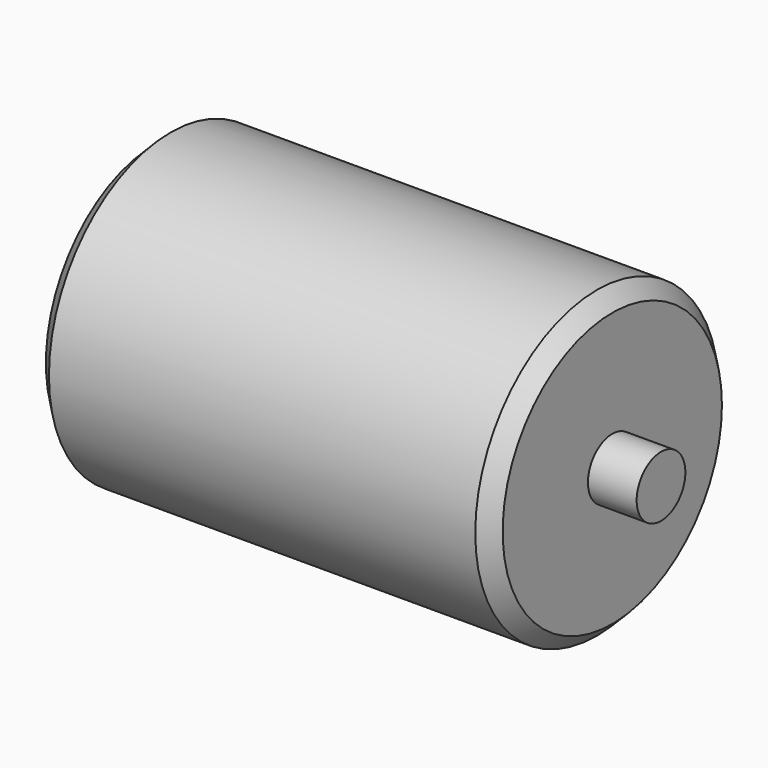
from build123d import *

# Parameters (mm, degrees)
F0_R     = 12.7
F1_DEPTH = 38.1
F2_SIZE  = 1.27
F3_R     = 2.54
F4_DEPTH = 4.064
F5_R     = 2.54
F6_DEPTH = 4.064


with BuildPart() as f1:
    # F0 (on Right) → F1 (new body)
    with BuildSketch(Plane.YZ):
        Circle(F0_R)
    extrude(amount=F1_DEPTH)

    # F2
    f2_edges = [f1.edges().sort_by_distance(p)[0] for p in [
        (0, -12.7, 0),
        (19.05, 12.7, 0),
        (38.1, -12.7, 0),
    ]]
    chamfer(f2_edges, length=F2_SIZE)

    # F3 (on face) → F4 (join)
    with BuildSketch(Plane(origin=(0, 0, 0), x_dir=(0, -1, 0), z_dir=(-1, 0, 0))):
        Circle(F3_R)
    extrude(amount=F4_DEPTH)

    # F5 (on face) → F6 (join)
    with BuildSketch(Plane.YZ.offset(38.1)):
        Circle(F5_R)
    extrude(amount=F6_DEPTH)


solid = f1.part
